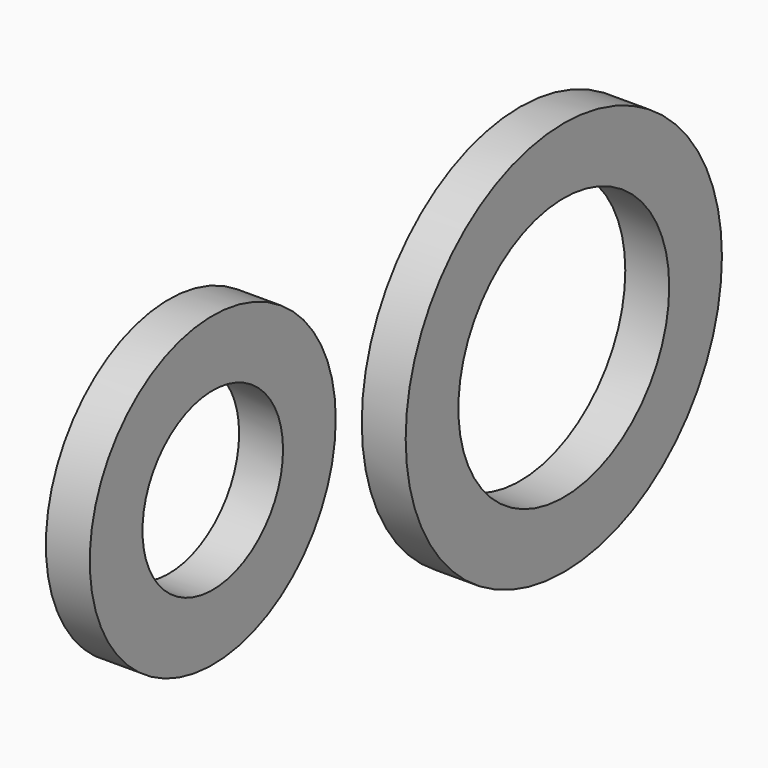
from build123d import *

# Parameters (mm, degrees)
F0_R     = 17.5
F0_R_2   = 10
F0_R_3   = 22.5
F0_R_4   = 15
F1_DEPTH = 5


with BuildPart() as f1:
    # F0 (on Right) → F1 (new body)
    with BuildSketch(Plane.YZ):
        with Locations((-20, 4.334016)):
            Circle(F0_R)
        with Locations((-20, 4.334016)):
            Circle(F0_R_2, mode=Mode.SUBTRACT)
        with Locations((29.952047, -1.69555)):
            Circle(F0_R_3)
        with Locations((29.952047, -1.69555)):
            Circle(F0_R_4, mode=Mode.SUBTRACT)
    extrude(amount=F1_DEPTH)


solid = f1.part
